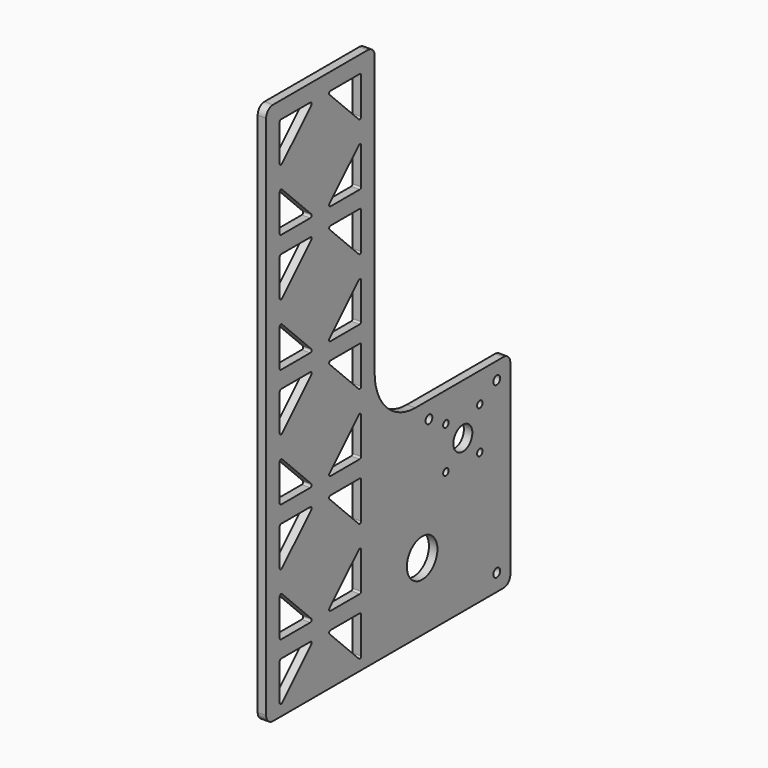
from build123d import *

# Parameters (mm, degrees)
F0_R     = 14.2875
F0_R_2   = 2.54
F0_R_3   = 3.175
F0_R_4   = 8.89
F1_DEPTH = 6.35
F2_R     = 6.35


with BuildPart() as f1:
    # F0 (on Right) → F1 (new body)
    with BuildSketch(Plane.YZ):
        Polygon((0, 406.4), (0, 0), (101.6, 0), (101.6, 152.4), (101.6, 190.5), (101.6, 406.4), align=None)
        with BuildLine():
            ThreePointArc((14.868026, 8.518026), (13.483992, 8.242724), (12.7, 9.416051))
            Line((12.7, 9.416051), (12.7, 36.83))
            ThreePointArc((12.7, 36.83), (13.071974, 37.728026), (13.97, 38.1))
            Line((13.97, 38.1), (41.383949, 38.1))
            ThreePointArc((41.383949, 38.1), (42.557276, 37.316008), (42.281974, 35.931974))
            Line((42.281974, 35.931974), (14.868026, 8.518026))
        make_face(mode=Mode.SUBTRACT)
        with BuildLine():
            Line((41.383949, 50.8), (13.97, 50.8))
            ThreePointArc((13.97, 50.8), (13.071974, 51.171974), (12.7, 52.07))
            Line((12.7, 52.07), (12.7, 79.483949))
            ThreePointArc((12.7, 79.483949), (13.483992, 80.657276), (14.868026, 80.381974))
            Line((14.868026, 80.381974), (42.281974, 52.968026))
            ThreePointArc((42.281974, 52.968026), (42.557276, 51.583992), (41.383949, 50.8))
        make_face(mode=Mode.SUBTRACT)
        with BuildLine():
            Line((88.9, 36.83), (88.9, 9.416051))
            ThreePointArc((88.9, 9.416051), (88.116008, 8.242724), (86.731974, 8.518026))
            Line((86.731974, 8.518026), (59.318026, 35.931974))
            ThreePointArc((59.318026, 35.931974), (59.042724, 37.316008), (60.216051, 38.1))
            Line((60.216051, 38.1), (87.63, 38.1))
            ThreePointArc((87.63, 38.1), (88.528026, 37.728026), (88.9, 36.83))
        make_face(mode=Mode.SUBTRACT)
        with BuildLine():
            ThreePointArc((60.216051, 50.8), (59.042724, 51.583992), (59.318026, 52.968026))
            Line((59.318026, 52.968026), (86.731974, 80.381974))
            ThreePointArc((86.731974, 80.381974), (88.116008, 80.657276), (88.9, 79.483949))
            Line((88.9, 79.483949), (88.9, 52.07))
            ThreePointArc((88.9, 52.07), (88.528026, 51.171974), (87.63, 50.8))
            Line((87.63, 50.8), (60.216051, 50.8))
        make_face(mode=Mode.SUBTRACT)
        with BuildLine():
            ThreePointArc((14.868026, 97.418026), (13.483992, 97.142724), (12.7, 98.316051))
            Line((12.7, 98.316051), (12.7, 125.73))
            ThreePointArc((12.7, 125.73), (13.071974, 126.628026), (13.97, 127))
            Line((13.97, 127), (41.383949, 127))
            ThreePointArc((41.383949, 127), (42.557276, 126.216008), (42.281974, 124.831974))
            Line((42.281974, 124.831974), (14.868026, 97.418026))
        make_face(mode=Mode.SUBTRACT)
        with BuildLine():
            Line((41.383949, 139.7), (13.97, 139.7))
            ThreePointArc((13.97, 139.7), (13.071974, 140.071974), (12.7, 140.97))
            Line((12.7, 140.97), (12.7, 168.383949))
            ThreePointArc((12.7, 168.383949), (13.483992, 169.557276), (14.868026, 169.281974))
            Line((14.868026, 169.281974), (42.281974, 141.868026))
            ThreePointArc((42.281974, 141.868026), (42.557276, 140.483992), (41.383949, 139.7))
        make_face(mode=Mode.SUBTRACT)
        with BuildLine():
            ThreePointArc((14.868026, 186.318026), (13.483992, 186.042724), (12.7, 187.216051))
            Line((12.7, 187.216051), (12.7, 214.63))
            ThreePointArc((12.7, 214.63), (13.071974, 215.528026), (13.97, 215.9))
            Line((13.97, 215.9), (41.383949, 215.9))
            ThreePointArc((41.383949, 215.9), (42.557276, 215.116008), (42.281974, 213.731974))
            Line((42.281974, 213.731974), (14.868026, 186.318026))
        make_face(mode=Mode.SUBTRACT)
        with BuildLine():
            Line((88.9, 125.73), (88.9, 98.316051))
            ThreePointArc((88.9, 98.316051), (88.116008, 97.142724), (86.731974, 97.418026))
            Line((86.731974, 97.418026), (59.318026, 124.831974))
            ThreePointArc((59.318026, 124.831974), (59.042724, 126.216008), (60.216051, 127))
            Line((60.216051, 127), (87.63, 127))
            ThreePointArc((87.63, 127), (88.528026, 126.628026), (88.9, 125.73))
        make_face(mode=Mode.SUBTRACT)
        with BuildLine():
            ThreePointArc((60.216051, 139.7), (59.042724, 140.483992), (59.318026, 141.868026))
            Line((59.318026, 141.868026), (86.731974, 169.281974))
            ThreePointArc((86.731974, 169.281974), (88.116008, 169.557276), (88.9, 168.383949))
            Line((88.9, 168.383949), (88.9, 140.97))
            ThreePointArc((88.9, 140.97), (88.528026, 140.071974), (87.63, 139.7))
            Line((87.63, 139.7), (60.216051, 139.7))
        make_face(mode=Mode.SUBTRACT)
        with BuildLine():
            Line((88.9, 214.63), (88.9, 187.216051))
            ThreePointArc((88.9, 187.216051), (88.116008, 186.042724), (86.731974, 186.318026))
            Line((86.731974, 186.318026), (59.318026, 213.731974))
            ThreePointArc((59.318026, 213.731974), (59.042724, 215.116008), (60.216051, 215.9))
            Line((60.216051, 215.9), (87.63, 215.9))
            ThreePointArc((87.63, 215.9), (88.528026, 215.528026), (88.9, 214.63))
        make_face(mode=Mode.SUBTRACT)
        with BuildLine():
            Line((41.383949, 228.6), (13.97, 228.6))
            ThreePointArc((13.97, 228.6), (13.071974, 228.971974), (12.7, 229.87))
            Line((12.7, 229.87), (12.7, 257.283949))
            ThreePointArc((12.7, 257.283949), (13.483992, 258.457276), (14.868026, 258.181974))
            Line((14.868026, 258.181974), (42.281974, 230.768026))
            ThreePointArc((42.281974, 230.768026), (42.557276, 229.383992), (41.383949, 228.6))
        make_face(mode=Mode.SUBTRACT)
        with BuildLine():
            ThreePointArc((14.868026, 275.218026), (13.483992, 274.942724), (12.7, 276.116051))
            Line((12.7, 276.116051), (12.7, 303.53))
            ThreePointArc((12.7, 303.53), (13.071974, 304.428026), (13.97, 304.8))
            Line((13.97, 304.8), (41.383949, 304.8))
            ThreePointArc((41.383949, 304.8), (42.557276, 304.016008), (42.281974, 302.631974))
            Line((42.281974, 302.631974), (14.868026, 275.218026))
        make_face(mode=Mode.SUBTRACT)
        with BuildLine():
            ThreePointArc((60.216051, 228.6), (59.042724, 229.383992), (59.318026, 230.768026))
            Line((59.318026, 230.768026), (86.731974, 258.181974))
            ThreePointArc((86.731974, 258.181974), (88.116008, 258.457276), (88.9, 257.283949))
            Line((88.9, 257.283949), (88.9, 229.87))
            ThreePointArc((88.9, 229.87), (88.528026, 228.971974), (87.63, 228.6))
            Line((87.63, 228.6), (60.216051, 228.6))
        make_face(mode=Mode.SUBTRACT)
        with BuildLine():
            Line((88.9, 303.53), (88.9, 276.116051))
            ThreePointArc((88.9, 276.116051), (88.116008, 274.942724), (86.731974, 275.218026))
            Line((86.731974, 275.218026), (59.318026, 302.631974))
            ThreePointArc((59.318026, 302.631974), (59.042724, 304.016008), (60.216051, 304.8))
            Line((60.216051, 304.8), (87.63, 304.8))
            ThreePointArc((87.63, 304.8), (88.528026, 304.428026), (88.9, 303.53))
        make_face(mode=Mode.SUBTRACT)
        with BuildLine():
            ThreePointArc((13.97, 317.5), (13.071974, 317.871974), (12.7, 318.77))
            Line((12.7, 318.77), (12.7, 346.183949))
            ThreePointArc((12.7, 346.183949), (13.483992, 347.357276), (14.868026, 347.081974))
            Line((14.868026, 347.081974), (42.281974, 319.668026))
            ThreePointArc((42.281974, 319.668026), (42.557276, 318.283992), (41.383949, 317.5))
            Line((41.383949, 317.5), (13.97, 317.5))
        make_face(mode=Mode.SUBTRACT)
        with BuildLine():
            Line((12.7, 365.016051), (12.7, 392.43))
            ThreePointArc((12.7, 392.43), (13.071974, 393.328026), (13.97, 393.7))
            Line((13.97, 393.7), (41.383949, 393.7))
            ThreePointArc((41.383949, 393.7), (42.557276, 392.916008), (42.281974, 391.531974))
            Line((42.281974, 391.531974), (14.868026, 364.118026))
            ThreePointArc((14.868026, 364.118026), (13.483992, 363.842724), (12.7, 365.016051))
        make_face(mode=Mode.SUBTRACT)
        with BuildLine():
            Line((87.63, 317.5), (60.216051, 317.5))
            ThreePointArc((60.216051, 317.5), (59.042724, 318.283992), (59.318026, 319.668026))
            Line((59.318026, 319.668026), (86.731974, 347.081974))
            ThreePointArc((86.731974, 347.081974), (88.116008, 347.357276), (88.9, 346.183949))
            Line((88.9, 346.183949), (88.9, 318.77))
            ThreePointArc((88.9, 318.77), (88.528026, 317.871974), (87.63, 317.5))
        make_face(mode=Mode.SUBTRACT)
        with BuildLine():
            Line((60.216051, 393.7), (87.63, 393.7))
            ThreePointArc((87.63, 393.7), (88.528026, 393.328026), (88.9, 392.43))
            Line((88.9, 392.43), (88.9, 365.016051))
            ThreePointArc((88.9, 365.016051), (88.116008, 363.842724), (86.731974, 364.118026))
            Line((86.731974, 364.118026), (59.318026, 391.531974))
            ThreePointArc((59.318026, 391.531974), (59.042724, 392.916008), (60.216051, 393.7))
        make_face(mode=Mode.SUBTRACT)
        Polygon((101.6, 152.4), (101.6, 0), (228.6, 0), (228.6, 152.4), (139.7, 152.4), align=None)
        with Locations((146.05, 50.8)):
            Circle(F0_R, mode=Mode.SUBTRACT)
        with Locations((168.275, 98.425)):
            Circle(F0_R_2, mode=Mode.SUBTRACT)
        with Locations((215.9, 12.7)):
            Circle(F0_R_3, mode=Mode.SUBTRACT)
        with Locations((200.025, 98.425)):
            Circle(F0_R_2, mode=Mode.SUBTRACT)
        with Locations((152.4, 139.7)):
            Circle(F0_R_3, mode=Mode.SUBTRACT)
        with Locations((168.275, 130.175)):
            Circle(F0_R_2, mode=Mode.SUBTRACT)
        with Locations((184.15, 114.3)):
            Circle(F0_R_4, mode=Mode.SUBTRACT)
        with Locations((200.025, 130.175)):
            Circle(F0_R_2, mode=Mode.SUBTRACT)
        with Locations((215.9, 139.7)):
            Circle(F0_R_3, mode=Mode.SUBTRACT)
        with BuildLine():
            Line((101.6, 190.5), (101.6, 152.4))
            Line((101.6, 152.4), (139.7, 152.4))
            ThreePointArc((139.7, 152.4), (112.759232, 163.559232), (101.6, 190.5))
        make_face()
    extrude(amount=F1_DEPTH)

    # F2
    f2_edges = [f1.edges().sort_by_distance(p)[0] for p in [
        (3.175, 228.6, 0),
        (3.175, 228.6, 152.4),
        (3.175, 0, 0),
        (3.175, 0, 406.4),
        (3.175, 101.6, 406.4),
    ]]
    fillet(f2_edges, radius=F2_R)


solid = f1.part
